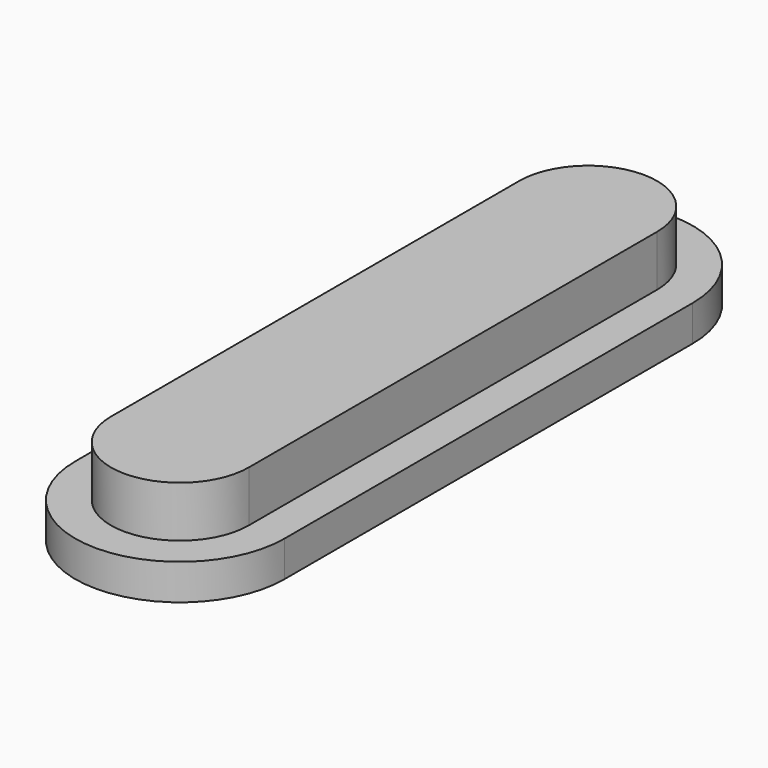
from build123d import *

# Parameters (mm, degrees)
F1_DEPTH = 10
F3_DEPTH = 7


with BuildPart() as f1:
    # F0 (on Top) → F1 (new body)
    with BuildSketch(Plane.XY):
        with BuildLine():
            Line((-13.5, 50), (-13.5, -50))
            ThreePointArc((-13.5, -50), (0, -63.5), (13.5, -50))
            Line((13.5, -50), (13.5, 50))
            ThreePointArc((13.5, 50), (0, 63.5), (-13.5, 50))
        make_face()
    extrude(amount=F1_DEPTH)

    # F2 (on face) → F3 (join)
    with BuildSketch(Plane(origin=(0, 0, 0), x_dir=(1, 0, 0), z_dir=(0, 0, -1))):
        with BuildLine():
            ThreePointArc((20.5, 50), (0, 70.5), (-20.5, 50))
            Line((-20.5, 50), (-20.5, -50))
            ThreePointArc((-20.5, -50), (0, -70.5), (20.5, -50))
            Line((20.5, -50), (20.5, 50))
        make_face()
    extrude(amount=F3_DEPTH)


solid = f1.part
